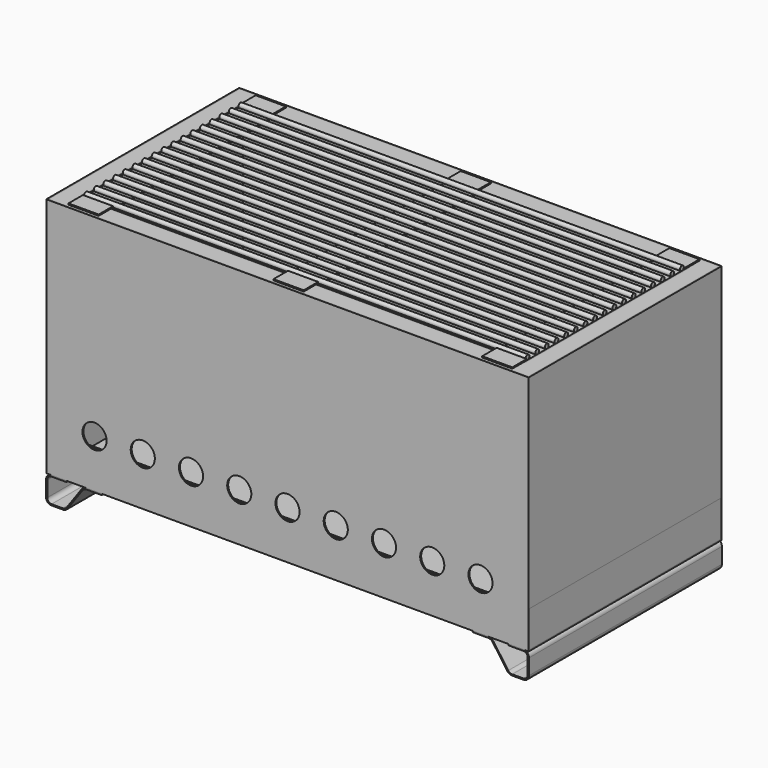
from build123d import *

# Parameters (mm, degrees)
F3_W      = 400
F3_H      = 200
F4_DEPTH  = 200
F5_T      = -1
F6_W      = 370
F6_H      = 170
F7_DEPTH  = 150
F8_T      = -1
F9_W      = 398
F9_H      = 198
F9_W_2    = 370
F9_H_2    = 170
F10_DEPTH = 1
F11_W     = 198
F11_H     = 30
F12_DEPTH = 25
F13_W     = 198
F13_H     = 30
F14_DEPTH = 399
F15_T     = -1
F16_R     = 10
F17_DEPTH = 25
F19_DEPTH = 25
F22_R     = 2
F23_DEPTH = 183
F25_DEPTH = 200


with BuildPart() as f4:
    # F3 (on Top) → F4 (new body)
    with BuildSketch(Plane.XY):
        Rectangle(F3_W, F3_H)
    extrude(amount=F4_DEPTH)

    # F5
    f5_openings = [f4.faces().sort_by_distance(p)[0] for p in [
        (0, 0, 200),
    ]]
    offset(amount=F5_T, openings=f5_openings)

    # F11 (on face) → F12 (cut)
    with BuildSketch(Plane.YZ.offset(200)):
        with Locations((0, 16)):
            Rectangle(F11_W, F11_H)
    extrude(amount=-F12_DEPTH, mode=Mode.SUBTRACT)

    # F16 (on face) → F17 (cut)
    with BuildSketch(Plane.XZ.offset(100)):
        with Locations((-160, 40)):
            Circle(F16_R)
        with Locations((-120, 40)):
            Circle(F16_R)
        with Locations((-80, 40)):
            Circle(F16_R)
        with Locations((-40, 40)):
            Circle(F16_R)
        with Locations((0, 40)):
            Circle(F16_R)
        with Locations((40, 40)):
            Circle(F16_R)
        with Locations((80, 40)):
            Circle(F16_R)
        with Locations((120, 40)):
            Circle(F16_R)
        with Locations((160, 40)):
            Circle(F16_R)
    extrude(amount=-F17_DEPTH, mode=Mode.SUBTRACT)


with BuildPart() as f7:
    # F6 (on face) → F7 (new body)
    with BuildSketch(Plane.XY.offset(200)):
        Rectangle(F6_W, F6_H)
    extrude(amount=-F7_DEPTH)

    # F8
    f8_openings = [f7.faces().sort_by_distance(p)[0] for p in [
        (0, 0, 200),
    ]]
    offset(amount=F8_T, openings=f8_openings)


with BuildPart() as f10:
    # F9 (on face) → F10 (new body)
    with BuildSketch(Plane.XY.offset(200)):
        Rectangle(F9_W, F9_H)
        Rectangle(F9_W_2, F9_H_2, mode=Mode.SUBTRACT)
    extrude(amount=-F10_DEPTH)


with BuildPart() as f14:
    # F13 (on face) → F14 (new body)
    with BuildSketch(Plane.YZ.offset(200)):
        with Locations((0, 16)):
            Rectangle(F13_W, F13_H)
    extrude(amount=-F14_DEPTH)

    # F15
    f15_openings = [f14.faces().sort_by_distance(p)[0] for p in [
        (0.5, 0, 31),
    ]]
    offset(amount=F15_T, openings=f15_openings)


with BuildPart() as f19:
    # F18 (on face) → F19 (new body)
    with BuildSketch(Plane.YZ.offset(-184)):
        Polygon((-97, 201), (-97, 200), (-83, 200), (-83, 198), (83, 198), (83, 200), (97, 200), (97, 201), (82, 201), (82, 199), (-82, 199), (-82, 201), align=None)
    extrude(amount=F19_DEPTH)


with BuildPart() as f20_1:
    # F20: instance of F19
    add(f19.part.mirror(Plane.YZ))


with BuildPart() as f21_1:
    # F21: copy of F19
    add(f19.part.moved(Location((170, 0, 0))))


with BuildPart() as f23:
    # F22 (on Right) → F23 (new body, symmetric)
    with BuildSketch(Plane.YZ):
        with Locations((-80, 201)):
            Circle(F22_R)
    extrude(amount=F23_DEPTH, both=True)


with BuildPart() as f23b:
    # F22 (on Right) → F23, piece 2 (new body, symmetric)
    with BuildSketch(Plane.YZ):
        with Locations((-70, 201)):
            Circle(F22_R)
    extrude(amount=F23_DEPTH, both=True)


with BuildPart() as f23c:
    # F22 (on Right) → F23, piece 3 (new body, symmetric)
    with BuildSketch(Plane.YZ):
        with Locations((-60, 201)):
            Circle(F22_R)
    extrude(amount=F23_DEPTH, both=True)


with BuildPart() as f23d:
    # F22 (on Right) → F23, piece 4 (new body, symmetric)
    with BuildSketch(Plane.YZ):
        with Locations((-50, 201)):
            Circle(F22_R)
    extrude(amount=F23_DEPTH, both=True)


with BuildPart() as f23e:
    # F22 (on Right) → F23, piece 5 (new body, symmetric)
    with BuildSketch(Plane.YZ):
        with Locations((-40, 201)):
            Circle(F22_R)
    extrude(amount=F23_DEPTH, both=True)


with BuildPart() as f23f:
    # F22 (on Right) → F23, piece 6 (new body, symmetric)
    with BuildSketch(Plane.YZ):
        with Locations((-30, 201)):
            Circle(F22_R)
    extrude(amount=F23_DEPTH, both=True)


with BuildPart() as f23g:
    # F22 (on Right) → F23, piece 7 (new body, symmetric)
    with BuildSketch(Plane.YZ):
        with Locations((-20, 201)):
            Circle(F22_R)
    extrude(amount=F23_DEPTH, both=True)


with BuildPart() as f23h:
    # F22 (on Right) → F23, piece 8 (new body, symmetric)
    with BuildSketch(Plane.YZ):
        with Locations((-10, 201)):
            Circle(F22_R)
    extrude(amount=F23_DEPTH, both=True)


with BuildPart() as f23i:
    # F22 (on Right) → F23, piece 9 (new body, symmetric)
    with BuildSketch(Plane.YZ):
        with Locations((0, 201)):
            Circle(F22_R)
    extrude(amount=F23_DEPTH, both=True)


with BuildPart() as f23j:
    # F22 (on Right) → F23, piece 10 (new body, symmetric)
    with BuildSketch(Plane.YZ):
        with Locations((10, 201)):
            Circle(F22_R)
    extrude(amount=F23_DEPTH, both=True)


with BuildPart() as f23k:
    # F22 (on Right) → F23, piece 11 (new body, symmetric)
    with BuildSketch(Plane.YZ):
        with Locations((20, 201)):
            Circle(F22_R)
    extrude(amount=F23_DEPTH, both=True)


with BuildPart() as f23l:
    # F22 (on Right) → F23, piece 12 (new body, symmetric)
    with BuildSketch(Plane.YZ):
        with Locations((30, 201)):
            Circle(F22_R)
    extrude(amount=F23_DEPTH, both=True)


with BuildPart() as f23m:
    # F22 (on Right) → F23, piece 13 (new body, symmetric)
    with BuildSketch(Plane.YZ):
        with Locations((40, 201)):
            Circle(F22_R)
    extrude(amount=F23_DEPTH, both=True)


with BuildPart() as f23n:
    # F22 (on Right) → F23, piece 14 (new body, symmetric)
    with BuildSketch(Plane.YZ):
        with Locations((50, 201)):
            Circle(F22_R)
    extrude(amount=F23_DEPTH, both=True)


with BuildPart() as f23o:
    # F22 (on Right) → F23, piece 15 (new body, symmetric)
    with BuildSketch(Plane.YZ):
        with Locations((60, 201)):
            Circle(F22_R)
    extrude(amount=F23_DEPTH, both=True)


with BuildPart() as f23p:
    # F22 (on Right) → F23, piece 16 (new body, symmetric)
    with BuildSketch(Plane.YZ):
        with Locations((70, 201)):
            Circle(F22_R)
    extrude(amount=F23_DEPTH, both=True)


with BuildPart() as f23q:
    # F22 (on Right) → F23, piece 17 (new body, symmetric)
    with BuildSketch(Plane.YZ):
        with Locations((80, 201)):
            Circle(F22_R)
    extrude(amount=F23_DEPTH, both=True)


with BuildPart() as f25:
    # F24 (on face) → F25 (new body)
    with BuildSketch(Plane.XZ.offset(100)):
        with BuildLine():
            Line((-195.6229666991, -1), (-183.2312486229, -1))
            Line((-183.2312486229, -1), (-183.2312486229, 0))
            Line((-183.2312486229, 0), (-195.6229666991, 0))
            ThreePointArc((-195.6229666991, 0), (-198.8425215989, -1.3335833043), (-200.1761049032, -4.5531382041))
            Line((-200.1761049032, -4.5531382041), (-200.1761049032, -17.5264256541))
            ThreePointArc((-200.1761049032, -17.5264256541), (-198.8425215989, -20.7459805539), (-195.6229666991, -22.0795638582))
            Line((-195.6229666991, -22.0795638582), (-186.2835894151, -22.0795638582))
            ThreePointArc((-186.2835894151, -22.0795638582), (-183.9943579137, -21.5236979587), (-182.2149625444, -19.9798974908))
            Line((-182.2149625444, -19.9798974908), (-170.1235165023, -2.9698950302))
            ThreePointArc((-170.1235165023, -2.9698950302), (-168.4540978988, -1.5215102218), (-166.3063539393, -1))
            Line((-166.3063539393, -1), (-153.914635863, -1))
            Line((-153.914635863, -1), (-153.914635863, 0))
            Line((-153.914635863, 0), (-166.3063539393, 0))
            ThreePointArc((-166.3063539393, 0), (-168.9126942369, -0.6328655241), (-170.9385749108, -2.3905162329))
            Line((-170.9385749108, -2.3905162329), (-183.0300209529, -19.4005186936))
            ThreePointArc((-183.0300209529, -19.4005186936), (-184.4529542519, -20.635053261), (-186.2835894151, -21.0795638582))
            Line((-186.2835894151, -21.0795638582), (-195.6229666991, -21.0795638582))
            ThreePointArc((-195.6229666991, -21.0795638582), (-198.1354148177, -20.0388737727), (-199.1761049032, -17.5264256541))
            Line((-199.1761049032, -17.5264256541), (-199.1761049032, -4.5531382041))
            ThreePointArc((-199.1761049032, -4.5531382041), (-198.1354148177, -2.0406900855), (-195.6229666991, -1))
        make_face()
    extrude(amount=-F25_DEPTH)


with BuildPart() as f26_1:
    # F26: instance of F25
    add(f25.part.mirror(Plane.YZ))


solid = Compound([f4.part, f7.part, f10.part, f14.part, f19.part, f20_1.part, f21_1.part, f23.part, f23b.part, f23c.part, f23d.part, f23e.part, f23f.part, f23g.part, f23h.part, f23i.part, f23j.part, f23k.part, f23l.part, f23m.part, f23n.part, f23o.part, f23p.part, f23q.part, f25.part, f26_1.part])
